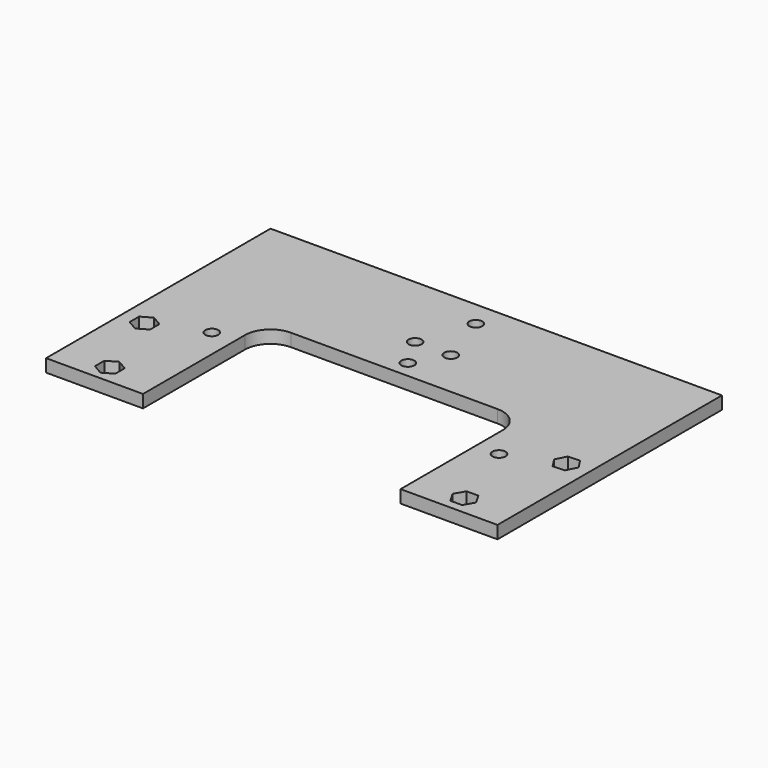
from build123d import *

# Parameters (mm, degrees)
F1_DEPTH = 5
F3_D     = 5.1
F4_R     = 2.55
F5_DEPTH = 25


with BuildPart() as f1:
    # F0 (on Top) → F1 (new body)
    with BuildSketch(Plane.XY):
        with BuildLine():
            Line((84.6812899327, 58.5268347502), (-92.3187100673, 58.5268347502))
            Line((-92.3187100673, 58.5268347502), (-92.3187100673, 8.5268347502))
            Line((-92.3187100673, 8.5268347502), (-92.3187100673, -51.4731652498))
            Line((-92.3187100673, -51.4731652498), (-54.3187100673, -51.4731652498))
            Line((-54.3187100673, -51.4731652498), (-54.3187100673, -1.4731652498))
            ThreePointArc((-54.3187100673, -1.4731652498), (-51.3897778791, 5.597902562), (-44.3187100673, 8.5268347502))
            Line((-44.3187100673, 8.5268347502), (36.6812899327, 8.5268347502))
            ThreePointArc((36.6812899327, 8.5268347502), (43.7523577446, 5.597902562), (46.6812899327, -1.4731652498))
            Line((46.6812899327, -1.4731652498), (46.6812899327, -51.4731652498))
            Line((46.6812899327, -51.4731652498), (84.6812899327, -51.4731652498))
            Line((84.6812899327, -51.4731652498), (84.6812899327, 8.5268347502))
            Line((84.6812899327, 8.5268347502), (84.6812899327, 58.5268347502))
        make_face()
    extrude(amount=F1_DEPTH)

    # F3 (through all)
    with Locations(Plane.XY.offset(5)):
        with Locations((-10.8187100673, 27.5268347502), (-3.8187100673, 48.5268347502), (3.1812899327, 27.5268347502), (-3.8187100673, 15.2268347502)):
            Hole(F3_D / 2)

    # F4 (on face) → F5 (cut)
    with BuildSketch(Plane.XY.offset(5)):
        Polygon((-79.3187100673, -16.7825663266), (-79.3187100673, -12.1637641731), (-83.3187100673, -9.8543630963), (-87.3187100673, -12.1637641731), (-87.3187100673, -16.7825663266), (-83.3187100673, -19.0919674033), align=None)
        Polygon((-69.3187100673, -46.2825663266), (-69.3187100673, -41.6637641731), (-73.3187100673, -39.3543630963), (-77.3187100673, -41.6637641731), (-77.3187100673, -46.2825663266), (-73.3187100673, -48.5919674033), align=None)
        Polygon((71.0691113787, -6.7204349793), (73.589342523, -10.5910639091), (78.201521077, -10.3437941797), (80.2934684868, -6.2258955204), (77.7732373424, -2.3552665905), (73.1610587884, -2.60253632), align=None)
        Polygon((70.3000901599, -43.9689468335), (67.9870367906, -39.9710577099), (63.3682365634, -39.9752761263), (61.0624897056, -43.9773836662), (63.3755430749, -47.9752727897), (67.994343302, -47.9710543734), align=None)
        with Locations((-63.3187100673, -6.4731652498)):
            Circle(F4_R)
        with Locations((55.6812899327, -14.4731652498)):
            Circle(F4_R)
    extrude(amount=-F5_DEPTH, mode=Mode.SUBTRACT)


solid = f1.part
